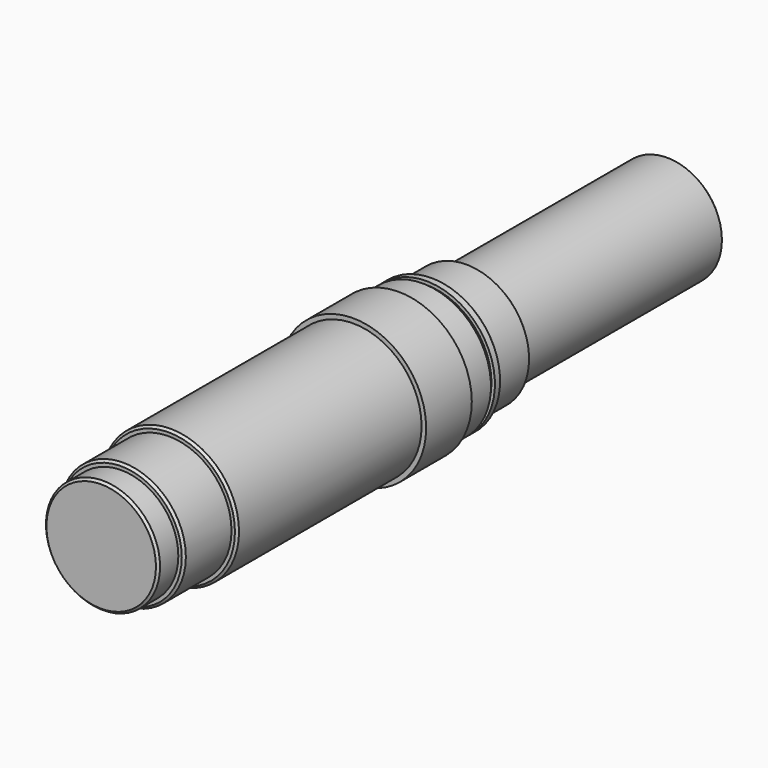
from build123d import *

# Parameters (mm, degrees)
F0_R      = 32
F1_DEPTH  = 25
F2_R      = 30
F3_DEPTH  = 101
F4_R      = 27.5
F5_DEPTH  = 26
F6_R      = 25
F7_DEPTH  = 11
F8_R      = 30
F9_DEPTH  = 19
F10_R     = 27.5
F11_DEPTH = 19
F12_R     = 24
F13_DEPTH = 110
F14_SIZE  = 1
F15_SIZE  = 1
F16_SIZE  = 1
F17_W     = 1.5
F17_H     = 2.15
F19_SIZE  = 1
F20_SIZE  = 1
F21_SIZE  = 1
F24_DEPTH = 9
F27_DEPTH = 9


with BuildPart() as f1:
    # F0 (on Front) → F1 (new body)
    with BuildSketch(Plane.XZ):
        Circle(F0_R)
    extrude(amount=F1_DEPTH)

    # F2 (on face) → F3 (join)
    with BuildSketch(Plane.XZ.offset(25)):
        Circle(F2_R)
    extrude(amount=F3_DEPTH)

    # F4 (on face) → F5 (join)
    with BuildSketch(Plane.XZ.offset(126)):
        Circle(F4_R)
    extrude(amount=F5_DEPTH)

    # F6 (on face) → F7 (join)
    with BuildSketch(Plane.XZ.offset(152)):
        Circle(F6_R)
    extrude(amount=F7_DEPTH)

    # F8 (on face) → F9 (join)
    with BuildSketch(Plane(origin=(0, 0, 0), x_dir=(-1, 0, 0), z_dir=(0, 1, 0))):
        Circle(F8_R)
    extrude(amount=F9_DEPTH)

    # F10 (on face) → F11 (join)
    with BuildSketch(Plane(origin=(0, 19, 0), x_dir=(-1, 0, 0), z_dir=(0, 1, 0))):
        Circle(F10_R)
    extrude(amount=F11_DEPTH)

    # F12 (on face) → F13 (join)
    with BuildSketch(Plane(origin=(0, 38, 0), x_dir=(-1, 0, 0), z_dir=(0, 1, 0))):
        Circle(F12_R)
    extrude(amount=F13_DEPTH)

    # F14
    f14_edges = [f1.edges().sort_by_distance(p)[0] for p in [
        (24, 148, 0),
    ]]
    chamfer(f14_edges, length=F14_SIZE)

    # F15
    f15_edges = [f1.edges().sort_by_distance(p)[0] for p in [
        (27.5, 38, 0),
    ]]
    chamfer(f15_edges, length=F15_SIZE)

    # F16
    f16_edges = [f1.edges().sort_by_distance(p)[0] for p in [
        (30, 19, 0),
    ]]
    chamfer(f16_edges, length=F16_SIZE)

    # F17 (on Top) → F18 (revolve, cut)
    with BuildSketch(Plane.XY):
        with Locations((29.25, 14.075)):
            Rectangle(F17_W, F17_H)
    revolve(axis=Axis((0, 0, 0), (0, -1, 0)), mode=Mode.SUBTRACT)

    # F19
    f19_edges = [f1.edges().sort_by_distance(p)[0] for p in [
        (-30, -126, 0),
    ]]
    chamfer(f19_edges, length=F19_SIZE)

    # F20
    f20_edges = [f1.edges().sort_by_distance(p)[0] for p in [
        (-27.5, -152, 0),
    ]]
    chamfer(f20_edges, length=F20_SIZE)

    # F21
    f21_edges = [f1.edges().sort_by_distance(p)[0] for p in [
        (-25, -163, 0),
    ]]
    chamfer(f21_edges, length=F21_SIZE)

    # F23 (on offset) → F24 (cut)
    with BuildSketch(Plane.YZ.offset(-24)):
        with BuildLine():
            Line((148, -7), (148, 7))
            Line((148, 7), (86, 7))
            ThreePointArc((86, 7), (79, 0), (86, -7))
            Line((86, -7), (148, -7))
        make_face()
    extrude(amount=F24_DEPTH, mode=Mode.SUBTRACT)

    # F26 (on offset) → F27 (cut)
    with BuildSketch(Plane.YZ.offset(-30)):
        with BuildLine():
            ThreePointArc((-84, -9), (-75, 0), (-84, 9))
            Line((-84, 9), (-116, 9))
            ThreePointArc((-116, 9), (-125, 0), (-116, -9))
            Line((-116, -9), (-84, -9))
        make_face()
    extrude(amount=F27_DEPTH, mode=Mode.SUBTRACT)


solid = f1.part
